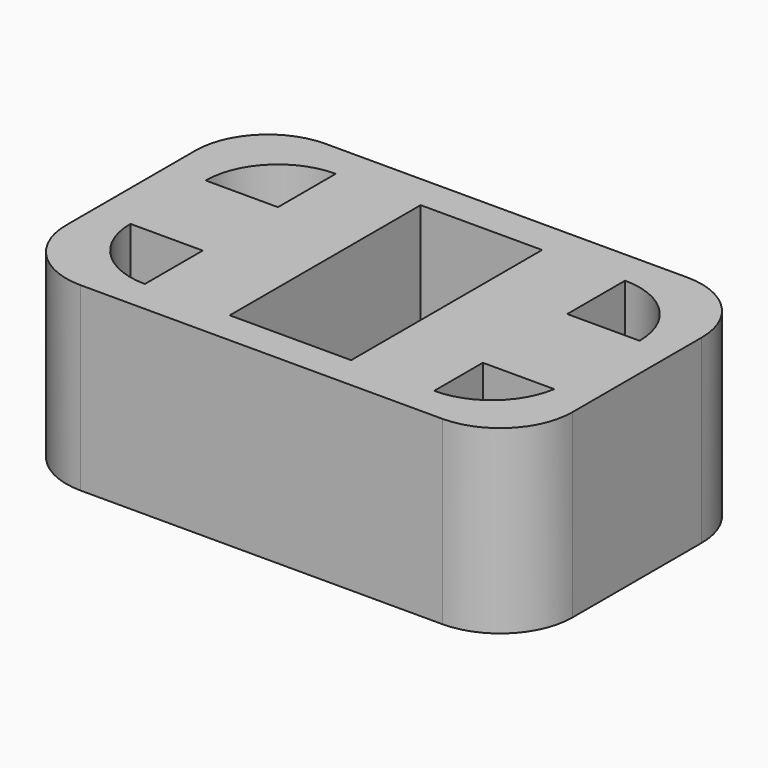
from build123d import *

# Parameters (mm, degrees)
F0_W     = 5.227163
F0_H     = 13
F0_W_2   = 10
F1_DEPTH = 25


with BuildPart() as f1:
    # F0 (on Top) → F1 (new body)
    with BuildSketch(Plane.XY):
        with BuildLine():
            Line((25.682302, 22.050065), (-24.317698, 22.050065))
            ThreePointArc((-24.317698, 22.050065), (-31.388766, 19.121133), (-34.317698, 12.050065))
            Line((-34.317698, 12.050065), (-34.317698, 7.264824))
            Line((-34.317698, 7.264824), (-29.090535, 7.264824))
            ThreePointArc((-29.090535, 7.264824), (-26.161603, 14.335892), (-19.090535, 17.264824))
            Line((-19.090535, 17.264824), (-7.357836, 17.264824))
            Line((-7.357836, 17.264824), (9.433085, 17.264824))
            Line((9.433085, 17.264824), (20.909465, 17.264824))
            ThreePointArc((20.909465, 17.264824), (27.980533, 14.335892), (30.909465, 7.264824))
            Line((30.909465, 7.264824), (35.682302, 7.264824))
            Line((35.682302, 7.264824), (35.682302, 12.050065))
            ThreePointArc((35.682302, 12.050065), (32.75337, 19.121133), (25.682302, 22.050065))
        make_face()
        with Locations((-31.704116, 0.764824)):
            Rectangle(F0_W, F0_H)
        with BuildLine():
            Line((35.682302, -7.319416), (35.682302, 7.264824))
            Line((35.682302, 7.264824), (30.909465, 7.264824))
            Line((30.909465, 7.264824), (30.909465, -5.735176))
            ThreePointArc((30.909465, -5.735176), (30.877843, -6.529809), (30.783177, -7.319416))
            Line((30.783177, -7.319416), (35.682302, -7.319416))
        make_face()
        with BuildLine():
            Line((-29.090535, -5.735176), (-34.317698, -5.735176))
            Line((-34.317698, -5.735176), (-34.317698, -10.289935))
            ThreePointArc((-34.317698, -10.289935), (-31.388766, -17.361003), (-24.317698, -20.289935))
            Line((-24.317698, -20.289935), (25.682302, -20.289935))
            ThreePointArc((25.682302, -20.289935), (32.75337, -17.361003), (35.682302, -10.289935))
            Line((35.682302, -10.289935), (35.682302, -7.319416))
            Line((35.682302, -7.319416), (30.783177, -7.319416))
            ThreePointArc((30.783177, -7.319416), (27.396282, -13.345774), (20.909465, -15.735176))
            Line((20.909465, -15.735176), (9.433085, -15.735176))
            Line((9.433085, -15.735176), (-7.357836, -15.735176))
            Line((-7.357836, -15.735176), (-19.090535, -15.735176))
            ThreePointArc((-19.090535, -15.735176), (-26.161603, -12.806243), (-29.090535, -5.735176))
        make_face()
        Polygon((-7.357836, 17.264824), (-19.090535, 17.264824), (-19.090535, 7.264824), (-19.090535, -5.735176), (-19.090535, -15.735176), (-7.357836, -15.735176), align=None)
        Polygon((20.909465, 7.264824), (20.909465, 17.264824), (9.433085, 17.264824), (9.433085, -15.735176), (20.909465, -15.735176), (20.909465, -7.319416), align=None)
        with BuildLine():
            Line((30.909465, -5.735176), (30.909465, 7.264824))
            Line((30.909465, 7.264824), (20.909465, 7.264824))
            Line((20.909465, 7.264824), (20.909465, -7.319416))
            Line((20.909465, -7.319416), (30.783177, -7.319416))
            ThreePointArc((30.783177, -7.319416), (30.877843, -6.529809), (30.909465, -5.735176))
        make_face()
        with Locations((-24.090535, 0.764824)):
            Rectangle(F0_W_2, F0_H)
    extrude(amount=F1_DEPTH)


solid = f1.part
